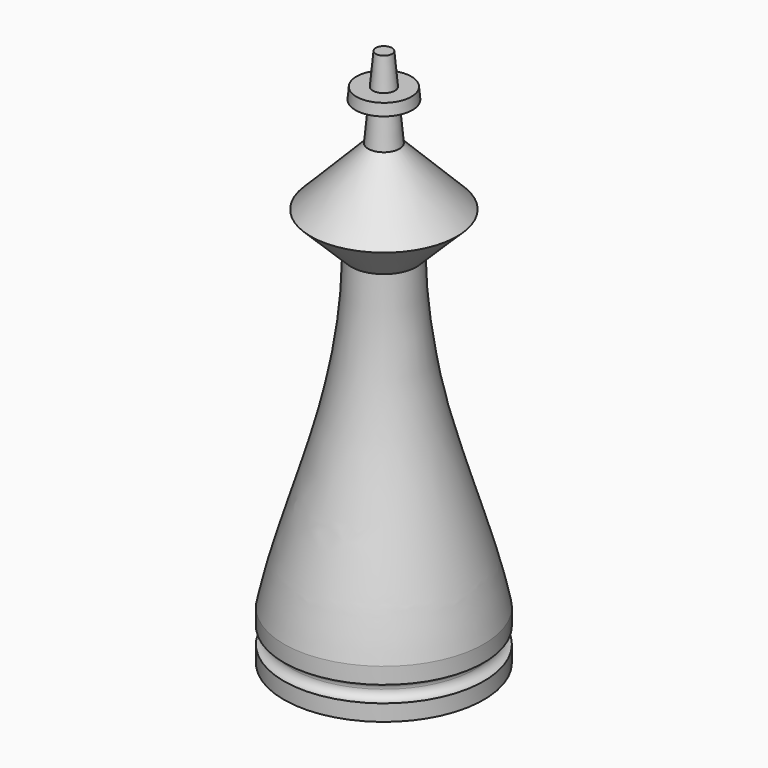
from build123d import *

# Parameters (mm, degrees)
F0_W   = 1.27
F0_H   = 1.27
F0_W_2 = 3.81
F0_H_2 = 3.5783256781


with BuildPart() as f1:
    # F0 (on Front) → F1 (revolve)
    with BuildSketch(Plane.XZ):
        with BuildLine():
            Line((-12.7, 0), (0, 0))
            add(Edge.make_bspline(
                [(0, 0), (7.4514020234, 3.331559943), (-2.5339151704, 7.6260847131), (-2.54, 12.7)],
                knots=[0, 0, 0, 0, 12.9515095645, 12.9515095645, 12.9515095645, 12.9515095645], degree=3))
            Line((-2.54, 12.7), (-12.7, 12.7))
            Line((-12.7, 12.7), (-12.7, 0))
        make_face()
        with BuildLine():
            Line((-12.7, 12.7), (-2.54, 12.7))
            add(Edge.make_bspline(
                [(-2.54, 12.7), (4.5093661174, 26.4475625008), (-14.613872394, 38.6360026896), (-5.08, 50.8)],
                knots=[0, 0, 0, 0, 38.1845728011, 38.1845728011, 38.1845728011, 38.1845728011], degree=3))
            Line((-5.08, 50.8), (-12.7, 50.8))
            Line((-12.7, 50.8), (-12.7, 12.7))
        make_face()
        with BuildLine():
            Line((-12.7, 50.8), (-5.08, 50.8))
            add(Edge.make_bspline(
                [(-5.08, 50.8), (-3.208857961, 50.9595312178), (-3.3491132781, 53.203612566), (-5.08, 53.34)],
                knots=[0, 0, 0, 0, 2.54, 2.54, 2.54, 2.54], degree=3))
            Line((-5.08, 53.34), (-9.7673060372, 53.34))
            Line((-9.7673060372, 53.34), (-11.43, 53.34))
            Line((-11.43, 53.34), (-12.7, 53.34))
            Line((-12.7, 53.34), (-12.7, 50.8))
        make_face()
        with BuildLine():
            Line((-9.7673060372, 53.34), (-5.08, 53.34))
            Line((-5.08, 53.34), (-2.0844770548, 59.69))
            add(Edge.make_bspline(
                [(-11.43, 53.5471198024), (-8.0565585685, 54.6403665691), (-5.5479568491, 59.69), (-2.0844770548, 59.69)],
                knots=[1.3390316874, 1.3390316874, 1.3390316874, 1.3390316874, 12.3697949619, 12.3697949619, 12.3697949619, 12.3697949619], degree=3))
            Line((-11.43, 53.5471198024), (-11.43, 53.34))
            Line((-11.43, 53.34), (-9.7673060372, 53.34))
        make_face()
        with BuildLine():
            add(Edge.make_bspline(
                [(-12.7, 53.34), (-12.2617526092, 53.34), (-11.8395042981, 53.4144098506), (-11.43, 53.5471198024)],
                knots=[0, 0, 0, 0, 1.3390316874, 1.3390316874, 1.3390316874, 1.3390316874], degree=3))
            Line((-12.7, 53.34), (-11.43, 53.34))
            Line((-11.43, 53.34), (-11.43, 53.5471198024))
        make_face()
        with BuildLine():
            Line((-12.7, 61.1916743219), (-12.7, 53.34))
            add(Edge.make_bspline(
                [(-12.7, 53.34), (-12.2617526092, 53.34), (-11.8395042981, 53.4144098506), (-11.43, 53.5471198024)],
                knots=[0, 0, 0, 0, 1.3390316874, 1.3390316874, 1.3390316874, 1.3390316874], degree=3))
            Line((-11.43, 53.5471198024), (-11.43, 61.1916743219))
            Line((-11.43, 61.1916743219), (-12.7, 61.1916743219))
        make_face()
        with Locations((-12.065, 61.8266743219)):
            Rectangle(F0_W, F0_H)
        with Locations((-9.525, 61.8266743219)):
            Rectangle(F0_W_2, F0_H)
        with Locations((-12.065, 64.2508371609)):
            Rectangle(F0_W, F0_H_2)
    revolve(axis=Axis((-12.7, 0, 25.4), (0, 0, 1)))


with BuildPart() as f4:
    # F3 (on Front) → F4 (revolve)
    with BuildSketch(Plane.XZ):
        Polygon((-1.27, 83.82), (-1.7199835438, 78.9296406197), (0, 78.9296406197), (0, 83.82), align=None)
        Polygon((-4.4343151529, 77.1516406197), (-1.8835851687, 77.1516406197), (-1.7199835438, 78.9296406197), (-4.270713528, 78.9296406197), align=None)
        with BuildLine():
            Line((-15.5575, 0), (0, 0))
            Line((0, 0), (0, 55.88))
            Line((0, 55.88), (-5.08, 55.88))
            add(Edge.make_bspline(
                [(-15.5575, 7.62), (-12.4826701358, 22.7640494704), (-5.5103190243, 35.0550673902), (-5.08, 55.88)],
                knots=[0, 0, 0, 0, 49.3842647637, 49.3842647637, 49.3842647637, 49.3842647637], degree=3))
            Line((-15.5575, 7.62), (-15.5575, 5.08))
            ThreePointArc((-15.5575, 5.08), (-14.6594743879, 4.7080256121), (-14.2875, 3.81))
            ThreePointArc((-14.2875, 3.81), (-14.6594743879, 2.9119743879), (-15.5575, 2.54))
            Line((-15.5575, 2.54), (-15.5575, 0))
        make_face()
        Polygon((-5.08, 55.88), (0, 55.88), (0, 70.0178143454), (-2.54, 70.0178143454), (-2.4315444093, 71.1964948159), (-11.3960751224, 62.1141322649), align=None)
        Polygon((-2.54, 70.0178143454), (0, 70.0178143454), (0, 73.66), (-2.4315444093, 71.1964948159), align=None)
        Polygon((-2.4315444093, 71.1964948159), (0, 73.66), (0, 77.1516406197), (-1.8835851687, 77.1516406197), align=None)
        Polygon((-1.8835851687, 77.1516406197), (0, 77.1516406197), (0, 78.2914757729), (0, 78.9296406197), (-1.7199835438, 78.9296406197), align=None)
    revolve(axis=Axis((0, 0, 27.94), (0, 0, 1)))


solid = f4.part
